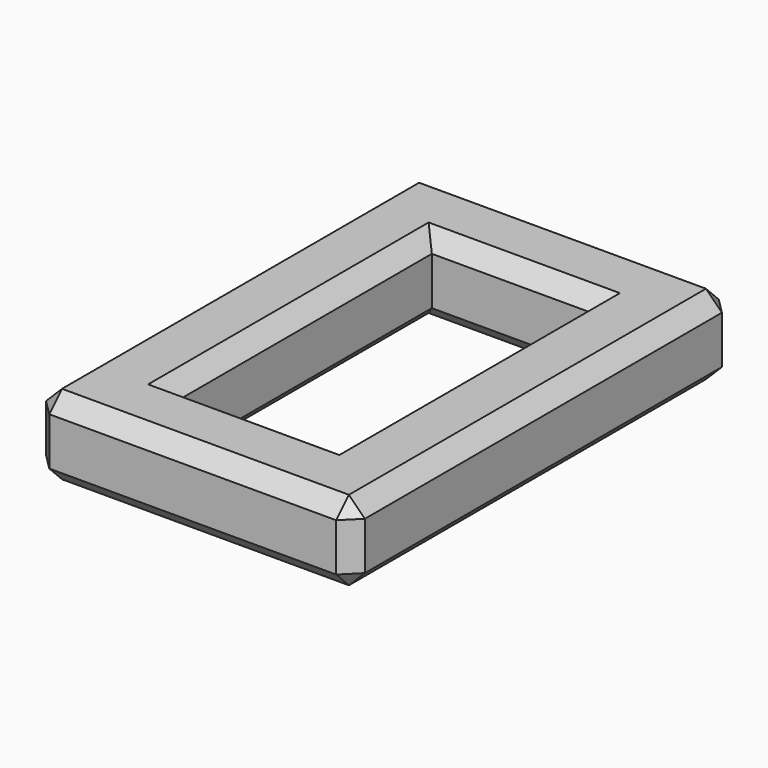
from build123d import *

# Parameters (mm, degrees)
F0_W     = 8
F0_H     = 12
F0_W_2   = 4
F0_H_2   = 8
F1_DEPTH = 2
F2_SIZE  = 0.4


with BuildPart() as f1:
    # F0 (on Top) → F1 (new body)
    with BuildSketch(Plane.XY):
        with Locations((-10.329974, -29.385177)):
            Rectangle(F0_W, F0_H)
        with Locations((-10.329974, -29.385177)):
            Rectangle(F0_W_2, F0_H_2, mode=Mode.SUBTRACT)
    extrude(amount=F1_DEPTH)

    # F2
    f2_edges = [f1.edges().sort_by_distance(p)[0] for p in [
        (-8.329974, -29.385177, 2),
        (-10.329974, -33.385177, 2),
        (-12.329974, -29.385177, 2),
        (-10.329974, -25.385177, 2),
        (-10.329974, -35.385177, 2),
        (-14.329974, -29.385177, 2),
        (-14.329974, -35.385177, 1),
        (-6.329974, -35.385177, 1),
        (-6.329974, -29.385177, 2),
        (-10.329974, -23.385177, 2),
        (-6.329974, -23.385177, 1),
        (-14.329974, -23.385177, 1),
        (-14.329974, -29.385177, 0),
        (-12.329974, -29.385177, 0),
        (-10.329974, -25.385177, 0),
        (-10.329974, -23.385177, 0),
        (-6.329974, -29.385177, 0),
        (-8.329974, -29.385177, 0),
        (-10.329974, -33.385177, 0),
        (-10.329974, -35.385177, 0),
    ]]
    chamfer(f2_edges, length=F2_SIZE)


solid = f1.part
